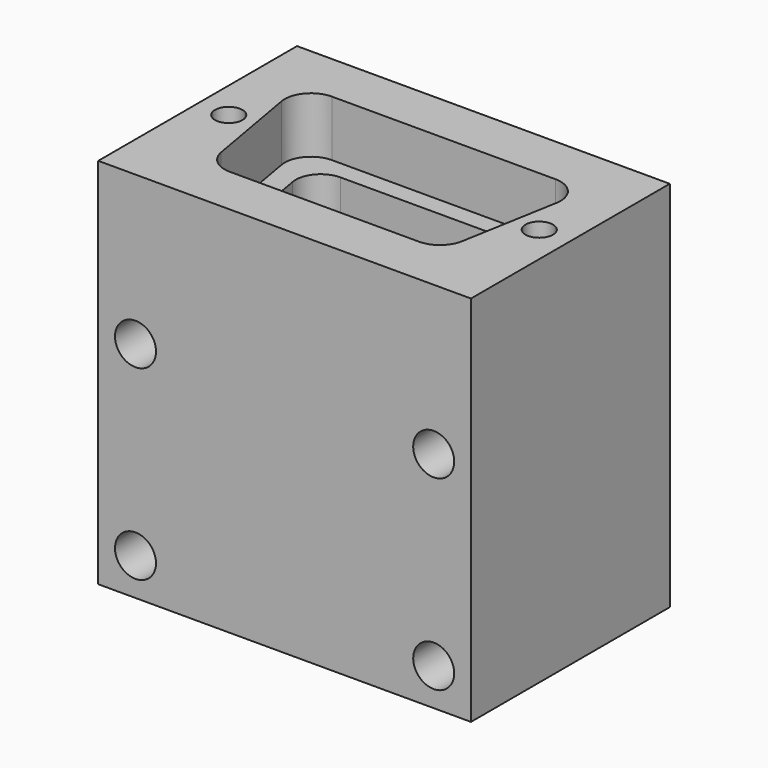
from build123d import *

# Parameters (mm, degrees)
SKETCH001_W           = 30
SKETCH001_H           = 30
PAD_DEPTH             = 20
POCKET_DEPTH          = 4.5
POCKET001_DEPTH       = 20
SKETCH004_R           = 3
HOLE001_DEPTH         = 30.001
SKETCH005_R           = 1.1049
HOLE002_DEPTH         = 9.336109
HOLE002_TIPS_R        = 1.1049
SKETCH_R              = 1.65
HOLE_DEPTH            = 20.001
CLONE_PITCH_ANGLE     = -90
CLONE_PLACEMENT_ANGLE = -90


with BuildPart() as part:
    # Sketch001 → Pad (new body)
    with BuildSketch(Plane.XY):
        with Locations((4.5, 0)):
            Rectangle(SKETCH001_W, SKETCH001_H)
    extrude(amount=PAD_DEPTH)

    # Sketch002 (on DatumPlane) → Pocket (cut)
    with BuildSketch(Plane(origin=(19.5, 0, 10), x_dir=(0, 1, 0), z_dir=(1, 0, 0))):
        with BuildLine():
            Line((-8.99, 6), (8.99, 6))
            ThreePointArc((11.067944, 3.523602), (10.606354, 5.246282), (8.99, 6))
            Line((11.067944, 3.523602), (9.69612, -4.256398))
            ThreePointArc((7.618176, -6), (8.974458, -5.506354), (9.69612, -4.256398))
            Line((-7.618176, -6), (7.618176, -6))
            ThreePointArc((-9.69612, -4.256398), (-8.974458, -5.506354), (-7.618176, -6))
            Line((-11.067944, 3.523602), (-9.69612, -4.256398))
            ThreePointArc((-8.99, 6), (-10.606354, 5.246282), (-11.067944, 3.523602))
        make_face()
    extrude(amount=-POCKET_DEPTH, mode=Mode.SUBTRACT)

    # Sketch003 (on DatumPlane) → Pocket001 (cut)
    with BuildSketch(Plane(origin=(19.5, 0, 10), x_dir=(0, 1, 0), z_dir=(1, 0, 0))):
        with BuildLine():
            Line((-7.1, 4.5), (7.1, 4.5))
            ThreePointArc((9.069616, 2.152704), (8.632089, 3.785575), (7.1, 4.5))
            Line((9.069616, 2.152704), (8.187981, -2.847296))
            ThreePointArc((6.218365, -4.5), (7.50394, -4.032089), (8.187981, -2.847296))
            Line((-6.218365, -4.5), (6.218365, -4.5))
            ThreePointArc((-8.187981, -2.847296), (-7.50394, -4.032089), (-6.218365, -4.5))
            Line((-9.069616, 2.152704), (-8.187981, -2.847296))
            ThreePointArc((-7.1, 4.5), (-8.632089, 3.785575), (-9.069616, 2.152704))
        make_face()
    extrude(amount=-POCKET001_DEPTH, mode=Mode.SUBTRACT)

    # Sketch004 (on DatumPlane) → Hole001 (cut, through all)
    with BuildSketch(Plane(origin=(19.5, 0, 10), x_dir=(0, 1, 0), z_dir=(1, 0, 0))):
        Circle(SKETCH004_R)
    extrude(amount=-HOLE001_DEPTH, mode=Mode.SUBTRACT)

    # Sketch005 (on DatumPlane) → Hole002 (cut)
    with BuildSketch(Plane(origin=(19.5, 0, 10), x_dir=(0, 1, 0), z_dir=(1, 0, 0))):
        with Locations((-12.495, 0)):
            Circle(SKETCH005_R)
        with Locations((12.495, 0)):
            Circle(SKETCH005_R)
    extrude(amount=-HOLE002_DEPTH, mode=Mode.SUBTRACT)

    # Hole002 tips → Hole002 tip 1 section 0
    with BuildSketch(Plane(origin=(10.163891, 0, 10), x_dir=(0, 1, 0), z_dir=(1, 0, 0)), mode=Mode.PRIVATE) as hole002_tip_1_s0:
        with Locations((-12.495, 0)):
            Circle(HOLE002_TIPS_R)
    loft([hole002_tip_1_s0.sketch, Vertex(9.5, -12.495, 10)], mode=Mode.SUBTRACT)

    # Hole002 tips → Hole002 tip 2 section 0
    with BuildSketch(Plane(origin=(10.163891, 0, 10), x_dir=(0, 1, 0), z_dir=(1, 0, 0)), mode=Mode.PRIVATE) as hole002_tip_2_s0:
        with Locations((12.495, 0)):
            Circle(HOLE002_TIPS_R)
    loft([hole002_tip_2_s0.sketch, Vertex(9.5, 12.495, 10)], mode=Mode.SUBTRACT)

    # Sketch (on DatumPlane) → Hole (cut, through all)
    with BuildSketch(Plane.XY.offset(20)):
        with Locations((-7.5, 12)):
            Circle(SKETCH_R)
        with Locations((7.5, 12)):
            Circle(SKETCH_R)
        with Locations((7.5, -12)):
            Circle(SKETCH_R)
        with Locations((-7.5, -12)):
            Circle(SKETCH_R)
    extrude(amount=-HOLE_DEPTH, mode=Mode.SUBTRACT)


with BuildPart() as part_1:
    # Clone pitch: moved
    add(part.part.rotate(Axis((0, 0, 0), (0, 1, 0)), CLONE_PITCH_ANGLE))


with BuildPart() as part_2:
    # Clone placement: moved
    add(part_1.part.moved(Location((15.65, 3.4, -20.65))).rotate(Axis((15.65, 3.4, -20.65), (0, 0, 1)), CLONE_PLACEMENT_ANGLE))


solid = part_2.part
